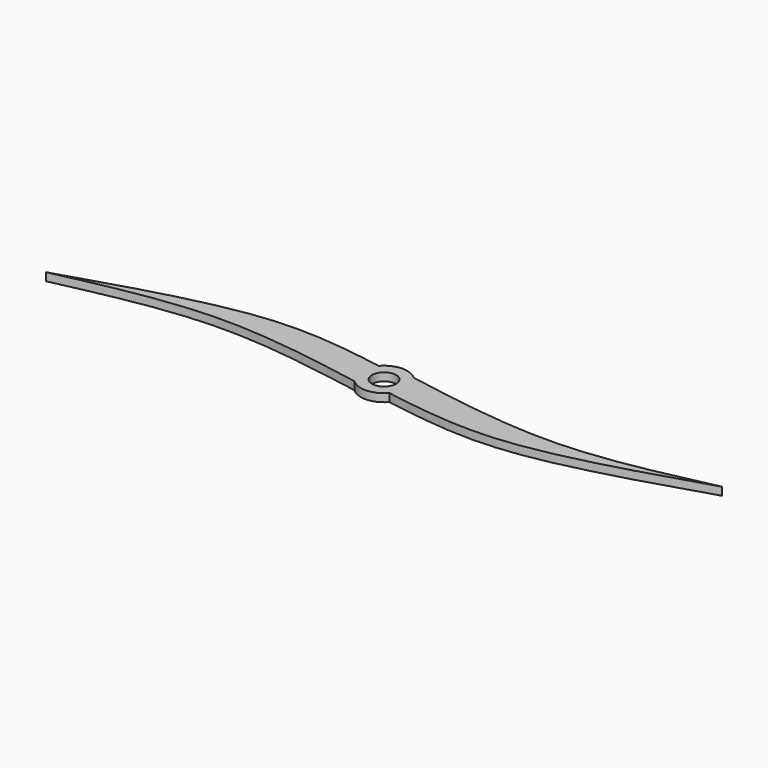
from build123d import *

# Parameters (mm, degrees)
F0_R     = 11.5
F1_DEPTH = 7.62


with BuildPart() as f1:
    # F0 (on Top) → F1 (new body)
    with BuildSketch(Plane.XY):
        with BuildLine():
            add(Edge.make_bspline(
                [(-304.8, -22.225), (-256.281952717, -11.6462046985), (-160.9327395291, 9.5532810961), (-63.9385421445, -7.4611328072), (-15.4543146438, -15.9723130414)],
                knots=[0, 0, 0, 0, 0.5000463338, 1, 1, 1, 1], degree=3))
            ThreePointArc((-15.4543146438, -15.9723130414), (0.9093988539, -22.2063868904), (16.7085754969, -14.655174167))
            add(Edge.make_bspline(
                [(304.8, 22.0956989706), (241.4063940217, 2.2112943637), (130.6588891485, -33.0673118699), (51.2951629881, -20.2260222501), (16.7085754969, -14.655174167)],
                knots=[0, 0, 0, 0, 0.5636673589, 1, 1, 1, 1], degree=3))
            add(Edge.make_bspline(
                [(304.8, 22.0956989706), (256.7236198928, 11.6132040543), (164.0894170156, -9.7967048574), (64.3799832607, 7.3836398761), (15.4543146438, 15.9723130414)],
                knots=[0, 0, 0, 0, 0.4954943359, 1, 1, 1, 1], degree=3))
            ThreePointArc((15.4543146438, 15.9723130414), (-0.9093988539, 22.2063868904), (-16.7085754969, 14.655174167))
            add(Edge.make_bspline(
                [(-304.8, -22.225), (-241.3932358108, -2.3364681127), (-130.5990382064, 33.0196945107), (-51.285889048, 20.2245285002), (-16.7085754969, 14.655174167)],
                knots=[0, 0, 0, 0, 0.5637843557, 1, 1, 1, 1], degree=3))
        make_face()
        Circle(F0_R, mode=Mode.SUBTRACT)
    extrude(amount=F1_DEPTH)


solid = f1.part
